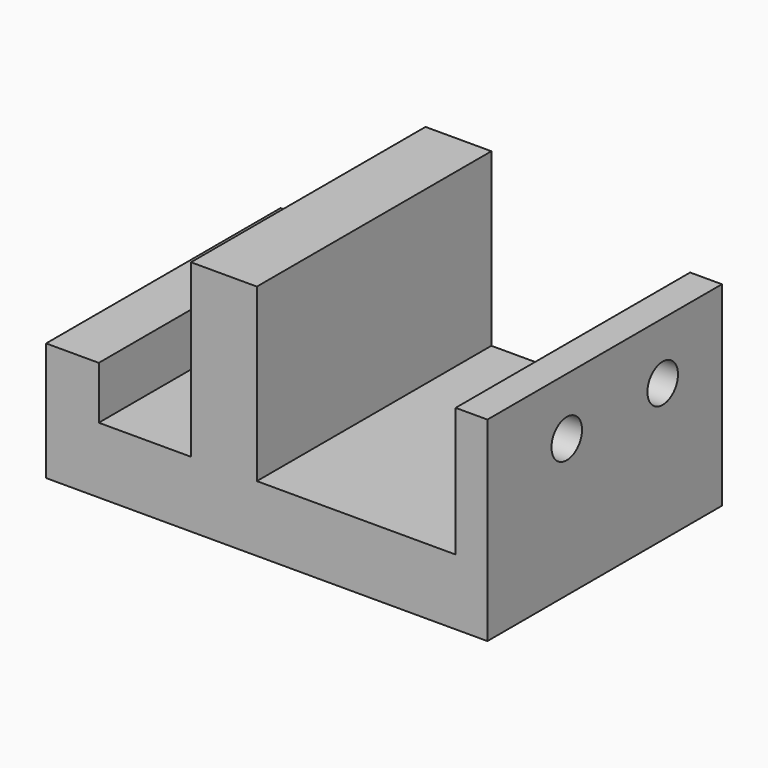
from build123d import *

# Parameters (mm, degrees)
F1_DEPTH = 56.515
F3_D     = 7.366
F3_DEPTH = 10.16
F4_D     = 7.366
F4_DEPTH = 10.16


with BuildPart() as f1:
    # F0 (on Front) → F1 (new body)
    with BuildSketch(Plane.XZ):
        Polygon((27.94, 0), (10.16, 0), (10.16, 10.16), (0, 10.16), (0, 0), (0, -12.7), (85.09, -12.7), (85.09, 0), (85.09, 24.900328), (78.959122, 24.900328), (78.959122, 0), (40.64, 0), (40.64, 33.02), (27.94, 33.02), align=None)
    extrude(amount=F1_DEPTH)

    # F3
    with Locations(Plane.YZ.offset(85.09)):
        with Locations((-37.39713, 13.904383)):
            Hole(F3_D / 2, depth=F3_DEPTH)

    # F4
    with Locations(Plane.YZ.offset(85.09)):
        with Locations((-14.272088, 13.904383)):
            Hole(F4_D / 2, depth=F4_DEPTH)


solid = f1.part
